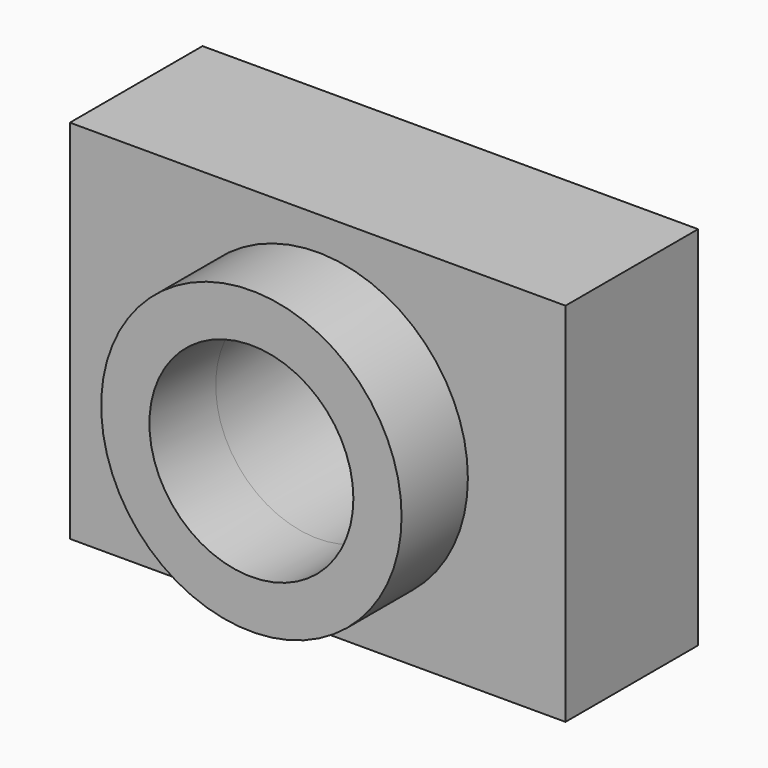
from build123d import *

# Parameters (mm, degrees)
F0_R      = 46.027577
F0_R_2    = 31.25712
F1_DEPTH  = 25.4
F2_W      = 151.878633
F2_H      = 112.294741
F3_DEPTH  = 50.8
F3_FACE_R = 31.25712
F4_DEPTH  = 134.366


with BuildPart() as f1:
    # F0 (on Front) → F1 (new body)
    with BuildSketch(Plane.XZ):
        Circle(F0_R)
        Circle(F0_R_2, mode=Mode.SUBTRACT)
    extrude(amount=F1_DEPTH)

    # F2 (on Front) → F3 (join)
    with BuildSketch(Plane.XZ):
        with Locations((-3e-06, 0.140368)):
            Rectangle(F2_W, F2_H)
    extrude(amount=-F3_DEPTH)

    # F3_face (on face) → F4 (cut)
    with BuildSketch(Plane.XZ):
        Circle(F3_FACE_R)
    extrude(amount=-F4_DEPTH, mode=Mode.SUBTRACT)


solid = f1.part
